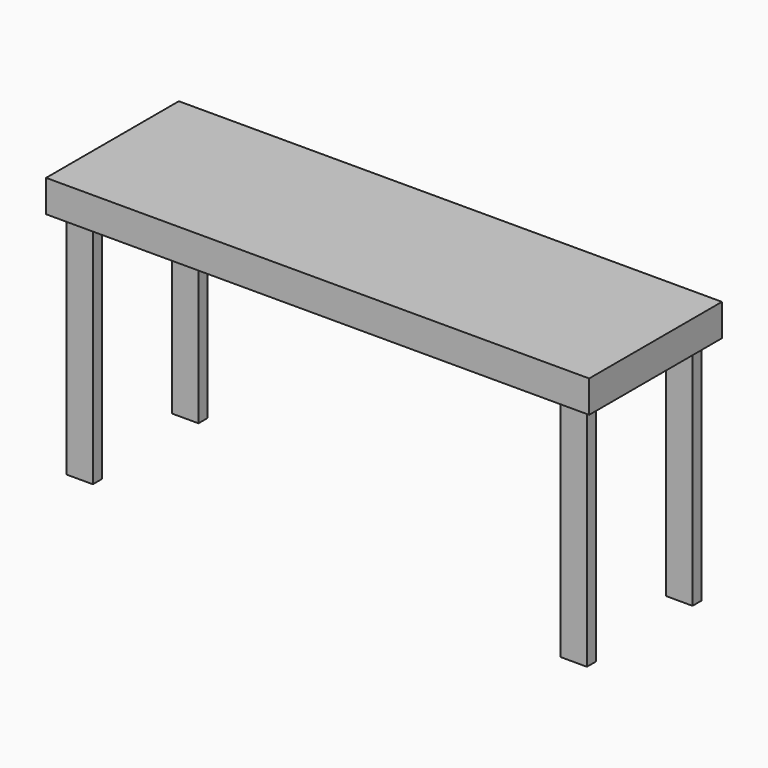
from build123d import *

# Parameters (mm, degrees)
F0_W     = 1828.8
F0_H     = 558.8
F1_DEPTH = 19.05
F2_W     = 38.1
F2_H     = 88.9
F3_DEPTH = 1828.8
F4_W     = 38.1
F4_H     = 88.9
F5_DEPTH = 482.6
F6_W     = 88.9
F6_H     = 38.1
F7_DEPTH = 863.6


with BuildPart() as f1:
    # F0 (on Top) → F1 (new body)
    with BuildSketch(Plane.XY):
        with Locations((914.4, -279.4)):
            Rectangle(F0_W, F0_H)
    extrude(amount=F1_DEPTH)

    # F2 (on face) → F3 (join, through all)
    with BuildSketch(Plane.YZ.offset(1828.8)):
        with Locations((-539.75, -44.45)):
            Rectangle(F2_W, F2_H)
        with Locations((-19.05, -44.45)):
            Rectangle(F2_W, F2_H)
    extrude(amount=-F3_DEPTH)

    # F4 (on face) → F5 (join, through all)
    with BuildSketch(Plane.XZ.offset(38.1)):
        with Locations((19.05, -44.45)):
            Rectangle(F4_W, F4_H)
        with Locations((1809.75, -44.45)):
            Rectangle(F4_W, F4_H)
    extrude(amount=F5_DEPTH)

    # F6 (on face) → F7 (join)
    with BuildSketch(Plane(origin=(0, 0, 0), x_dir=(1, 0, 0), z_dir=(0, 0, -1))):
        with Locations((1746.25, 501.65)):
            Rectangle(F6_W, F6_H)
        with Locations((1746.25, 57.15)):
            Rectangle(F6_W, F6_H)
        with Locations((82.55, 57.15)):
            Rectangle(F6_W, F6_H)
        with Locations((82.55, 501.65)):
            Rectangle(F6_W, F6_H)
    extrude(amount=F7_DEPTH)


solid = f1.part
